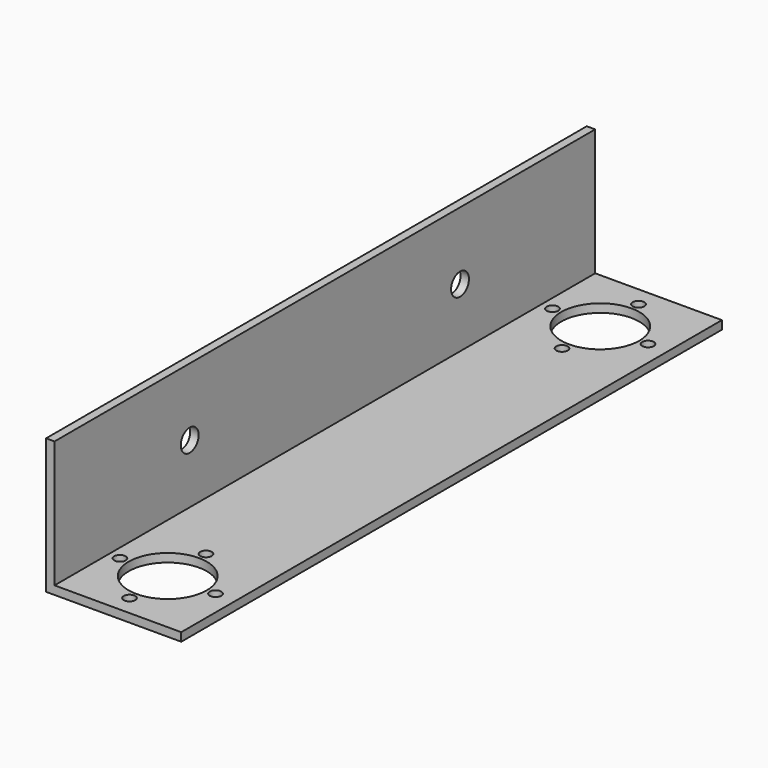
from build123d import *

# Parameters (mm, degrees)
F2_DEPTH = 63.5
F0_R     = 7.3279
F0_R_2   = 1.0795
F3_DEPTH = 25.401
F4_R     = 2.0955
F5_DEPTH = 25.401


with BuildPart() as f2:
    # F1 (on Front) → F2 (new body, symmetric)
    with BuildSketch(Plane.XZ):
        Polygon((12.7, 0), (12.7, 1.5875), (-11.1125, 1.5875), (-11.1125, 25.4), (-12.7, 25.4), (-12.7, 0), align=None)
    extrude(amount=F2_DEPTH, both=True)


with BuildPart() as f3:
    # F0 (on Top) → F3 (new body, through all)
    with BuildSketch(Plane.XY):
        with Locations((0, 50.8)):
            Circle(F0_R)
        with Locations((0, 59.780256)):
            Circle(F0_R_2)
        with Locations((8.980256, 50.8)):
            Circle(F0_R_2)
        with Locations((0, 41.819744)):
            Circle(F0_R_2)
        with Locations((-8.980256, 50.8)):
            Circle(F0_R_2)
    extrude(amount=F3_DEPTH)


with BuildPart() as f5:
    # F4 (on face) → F5 (new body, through all)
    with BuildSketch(Plane(origin=(-12.7, 0, 0), x_dir=(0, -1, 0), z_dir=(-1, 0, 0))):
        with Locations((-31.75, 12.7)):
            Circle(F4_R)
    extrude(amount=-F5_DEPTH)


with BuildPart() as f6_1:
    # F6: instance of F3
    add(f3.part.mirror(Plane.XZ))


with BuildPart() as f6_2:
    # F6: instance of F5
    add(f5.part.mirror(Plane.XZ))


with BuildPart() as f2_1:
    add(f2.part)

    # F7: cut F5, F6_2, F3, F6_1
    add(f5.part, mode=Mode.SUBTRACT)
    add(f6_2.part, mode=Mode.SUBTRACT)
    add(f3.part, mode=Mode.SUBTRACT)
    add(f6_1.part, mode=Mode.SUBTRACT)


solid = f2_1.part
